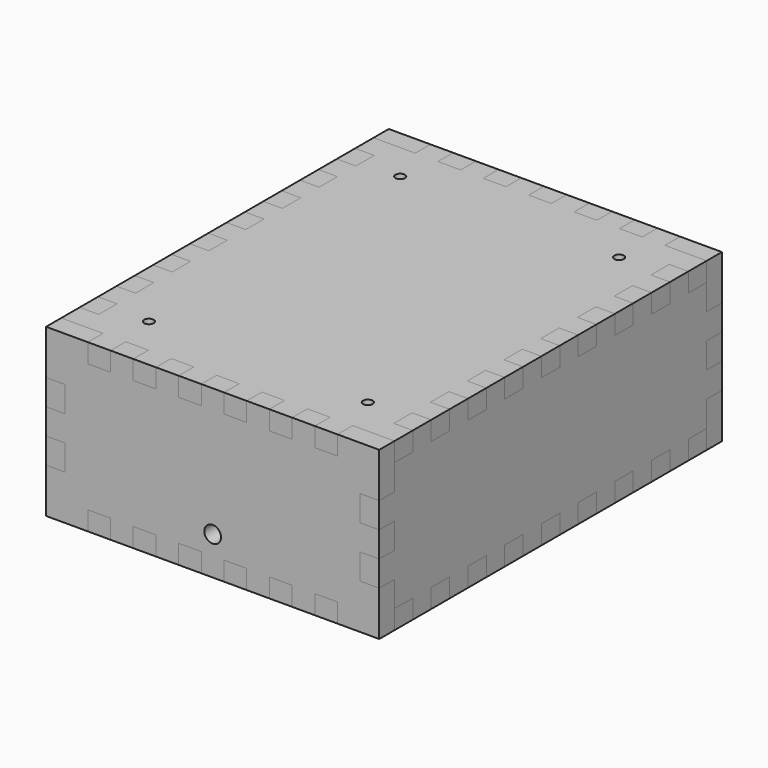
from build123d import *

# Parameters (mm, degrees)
BOTTOM_EXTRUDE_DEPTH = 4
SKETCH001_R          = 1
POCKET_DEPTH         = 4.001
SKETCH_W             = 50
SKETCH_H             = 70
PAD_DEPTH            = 1.6
SKETCH002_R          = 1
POCKET001_DEPTH      = 1.601
FRONT_EXTRUDE_DEPTH  = 4
SKETCH003_R          = 1.75
POCKET002_DEPTH      = 4.001
TOP_EXTRUDE_DEPTH    = 4
SKETCH004_R          = 1
POCKET003_DEPTH      = 4.001
RIGHT_EXTRUDE_DEPTH  = 4
BACK_EXTRUDE_DEPTH   = 4
LEFT_EXTRUDE_DEPTH   = 4


with BuildPart() as bottom:
    # Bottom_Part → Bottom_Extrude (new body)
    with BuildSketch(Plane(origin=(0, 0, -13.5), x_dir=(0, 1, 0), z_dir=(0, 0, 1))):
        Polygon((-41, 35), (-41, 31), (-41, 26.230769), (-45, 26.230769), (-45, 21.461538), (-41, 21.461538), (-41, 16.692308), (-45, 16.692308), (-45, 11.923077), (-41, 11.923077), (-41, 7.153846), (-45, 7.153846), (-45, 2.384615), (-41, 2.384615), (-41, -2.384615), (-45, -2.384615), (-45, -7.153846), (-41, -7.153846), (-41, -11.923077), (-45, -11.923077), (-45, -16.692308), (-41, -16.692308), (-41, -21.461538), (-45, -21.461538), (-45, -26.230769), (-41, -26.230769), (-41, -31), (-41, -35), (-36.176471, -35), (-36.176471, -31), (-31.352941, -31), (-31.352941, -35), (-26.529412, -35), (-26.529412, -31), (-21.705882, -31), (-21.705882, -35), (-16.882353, -35), (-16.882353, -31), (-12.058824, -31), (-12.058824, -35), (-7.235294, -35), (-7.235294, -31), (-2.411765, -31), (-2.411765, -35), (2.411765, -35), (2.411765, -31), (7.235294, -31), (7.235294, -35), (12.058824, -35), (12.058824, -31), (16.882353, -31), (16.882353, -35), (21.705882, -35), (21.705882, -31), (26.529412, -31), (26.529412, -35), (31.352941, -35), (31.352941, -31), (36.176471, -31), (36.176471, -35), (41, -35), (41, -31), (41, -26.230769), (45, -26.230769), (45, -21.461538), (41, -21.461538), (41, -16.692308), (45, -16.692308), (45, -11.923077), (41, -11.923077), (41, -7.153846), (45, -7.153846), (45, -2.384615), (41, -2.384615), (41, 2.384615), (45, 2.384615), (45, 7.153846), (41, 7.153846), (41, 11.923077), (45, 11.923077), (45, 16.692308), (41, 16.692308), (41, 21.461538), (45, 21.461538), (45, 26.230769), (41, 26.230769), (41, 31), (41, 35), (36.176471, 35), (36.176471, 31), (31.352941, 31), (31.352941, 35), (26.529412, 35), (26.529412, 31), (21.705882, 31), (21.705882, 35), (16.882353, 35), (16.882353, 31), (12.058824, 31), (12.058824, 35), (7.235294, 35), (7.235294, 31), (2.411765, 31), (2.411765, 35), (-2.411765, 35), (-2.411765, 31), (-7.235294, 31), (-7.235294, 35), (-12.058824, 35), (-12.058824, 31), (-16.882353, 31), (-16.882353, 35), (-21.705882, 35), (-21.705882, 31), (-26.529412, 31), (-26.529412, 35), (-31.352941, 35), (-31.352941, 31), (-36.176471, 31), (-36.176471, 35), align=None)
    extrude(amount=-BOTTOM_EXTRUDE_DEPTH)

    # Sketch001 → Pocket (cut, through all)
    with BuildSketch(Plane(origin=(0, 0, -17.5), x_dir=(1, 0, 0), z_dir=(0, 0, -1))):
        with Locations((-23, 33)):
            Circle(SKETCH001_R)
        with Locations((23, 33)):
            Circle(SKETCH001_R)
        with Locations((-23, -33)):
            Circle(SKETCH001_R)
        with Locations((23, -33)):
            Circle(SKETCH001_R)
    extrude(amount=-POCKET_DEPTH, mode=Mode.SUBTRACT)


with BuildPart() as pcb:
    # Sketch → Pad (new body)
    with BuildSketch(Plane.XY.offset(-9.5)):
        Rectangle(SKETCH_W, SKETCH_H)
    extrude(amount=PAD_DEPTH)

    # Sketch002 → Pocket001 (cut, through all)
    with BuildSketch(Plane.XY.offset(-7.9)):
        with Locations((-23, 33)):
            Circle(SKETCH002_R)
        with Locations((23, 33)):
            Circle(SKETCH002_R)
        with Locations((23, -33)):
            Circle(SKETCH002_R)
        with Locations((-23, -33)):
            Circle(SKETCH002_R)
    extrude(amount=-POCKET001_DEPTH, mode=Mode.SUBTRACT)


with BuildPart() as front:
    # Front_Part → Front_Extrude (new body)
    with BuildSketch(Plane(origin=(0, -41, 0), x_dir=(1, 0, 0), z_dir=(0, 1, 0))):
        Polygon((-35, -17.5), (-31, -17.5), (-26.230769, -17.5), (-26.230769, -13.5), (-21.461538, -13.5), (-21.461538, -17.5), (-16.692308, -17.5), (-16.692308, -13.5), (-11.923077, -13.5), (-11.923077, -17.5), (-7.153846, -17.5), (-7.153846, -13.5), (-2.384615, -13.5), (-2.384615, -17.5), (2.384615, -17.5), (2.384615, -13.5), (7.153846, -13.5), (7.153846, -17.5), (11.923077, -17.5), (11.923077, -13.5), (16.692308, -13.5), (16.692308, -17.5), (21.461538, -17.5), (21.461538, -13.5), (26.230769, -13.5), (26.230769, -17.5), (31, -17.5), (35, -17.5), (35, -13.5), (35, -8.1), (31, -8.1), (31, -2.7), (35, -2.7), (35, 2.7), (31, 2.7), (31, 8.1), (35, 8.1), (35, 13.5), (35, 17.5), (31, 17.5), (26.230769, 17.5), (26.230769, 13.5), (21.461538, 13.5), (21.461538, 17.5), (16.692308, 17.5), (16.692308, 13.5), (11.923077, 13.5), (11.923077, 17.5), (7.153846, 17.5), (7.153846, 13.5), (2.384615, 13.5), (2.384615, 17.5), (-2.384615, 17.5), (-2.384615, 13.5), (-7.153846, 13.5), (-7.153846, 17.5), (-11.923077, 17.5), (-11.923077, 13.5), (-16.692308, 13.5), (-16.692308, 17.5), (-21.461538, 17.5), (-21.461538, 13.5), (-26.230769, 13.5), (-26.230769, 17.5), (-31, 17.5), (-35, 17.5), (-35, 13.5), (-35, 8.1), (-31, 8.1), (-31, 2.7), (-35, 2.7), (-35, -2.7), (-31, -2.7), (-31, -8.1), (-35, -8.1), (-35, -13.5), align=None)
    extrude(amount=-FRONT_EXTRUDE_DEPTH)

    # Sketch003 → Pocket002 (cut, through all)
    with BuildSketch(Plane.XZ.offset(45)):
        with Locations((0, -9.5)):
            Circle(SKETCH003_R)
    extrude(amount=-POCKET002_DEPTH, mode=Mode.SUBTRACT)


with BuildPart() as top:
    # Top_Part → Top_Extrude (new body)
    with BuildSketch(Plane(origin=(0, 0, 13.5), x_dir=(0, -1, 0), z_dir=(0, 0, -1))):
        Polygon((-41, 35), (-41, 31), (-41, 26.230769), (-45, 26.230769), (-45, 21.461538), (-41, 21.461538), (-41, 16.692308), (-45, 16.692308), (-45, 11.923077), (-41, 11.923077), (-41, 7.153846), (-45, 7.153846), (-45, 2.384615), (-41, 2.384615), (-41, -2.384615), (-45, -2.384615), (-45, -7.153846), (-41, -7.153846), (-41, -11.923077), (-45, -11.923077), (-45, -16.692308), (-41, -16.692308), (-41, -21.461538), (-45, -21.461538), (-45, -26.230769), (-41, -26.230769), (-41, -31), (-41, -35), (-36.176471, -35), (-36.176471, -31), (-31.352941, -31), (-31.352941, -35), (-26.529412, -35), (-26.529412, -31), (-21.705882, -31), (-21.705882, -35), (-16.882353, -35), (-16.882353, -31), (-12.058824, -31), (-12.058824, -35), (-7.235294, -35), (-7.235294, -31), (-2.411765, -31), (-2.411765, -35), (2.411765, -35), (2.411765, -31), (7.235294, -31), (7.235294, -35), (12.058824, -35), (12.058824, -31), (16.882353, -31), (16.882353, -35), (21.705882, -35), (21.705882, -31), (26.529412, -31), (26.529412, -35), (31.352941, -35), (31.352941, -31), (36.176471, -31), (36.176471, -35), (41, -35), (41, -31), (41, -26.230769), (45, -26.230769), (45, -21.461538), (41, -21.461538), (41, -16.692308), (45, -16.692308), (45, -11.923077), (41, -11.923077), (41, -7.153846), (45, -7.153846), (45, -2.384615), (41, -2.384615), (41, 2.384615), (45, 2.384615), (45, 7.153846), (41, 7.153846), (41, 11.923077), (45, 11.923077), (45, 16.692308), (41, 16.692308), (41, 21.461538), (45, 21.461538), (45, 26.230769), (41, 26.230769), (41, 31), (41, 35), (36.176471, 35), (36.176471, 31), (31.352941, 31), (31.352941, 35), (26.529412, 35), (26.529412, 31), (21.705882, 31), (21.705882, 35), (16.882353, 35), (16.882353, 31), (12.058824, 31), (12.058824, 35), (7.235294, 35), (7.235294, 31), (2.411765, 31), (2.411765, 35), (-2.411765, 35), (-2.411765, 31), (-7.235294, 31), (-7.235294, 35), (-12.058824, 35), (-12.058824, 31), (-16.882353, 31), (-16.882353, 35), (-21.705882, 35), (-21.705882, 31), (-26.529412, 31), (-26.529412, 35), (-31.352941, 35), (-31.352941, 31), (-36.176471, 31), (-36.176471, 35), align=None)
    extrude(amount=-TOP_EXTRUDE_DEPTH)

    # Sketch004 → Pocket003 (cut, through all)
    with BuildSketch(Plane.XY.offset(17.5)):
        with Locations((-23, 33)):
            Circle(SKETCH004_R)
        with Locations((23, 33)):
            Circle(SKETCH004_R)
        with Locations((-23, -33)):
            Circle(SKETCH004_R)
        with Locations((23, -33)):
            Circle(SKETCH004_R)
    extrude(amount=-POCKET003_DEPTH, mode=Mode.SUBTRACT)


with BuildPart() as right_extrude:
    # Right_Part → Right_Extrude (new body)
    with BuildSketch(Plane(origin=(31, 0, 0), x_dir=(0, 1, 0), z_dir=(-1, 0, 0))):
        Polygon((-41, -13.5), (-36.176471, -13.5), (-36.176471, -17.5), (-31.352941, -17.5), (-31.352941, -13.5), (-26.529412, -13.5), (-26.529412, -17.5), (-21.705882, -17.5), (-21.705882, -13.5), (-16.882353, -13.5), (-16.882353, -17.5), (-12.058824, -17.5), (-12.058824, -13.5), (-7.235294, -13.5), (-7.235294, -17.5), (-2.411765, -17.5), (-2.411765, -13.5), (2.411765, -13.5), (2.411765, -17.5), (7.235294, -17.5), (7.235294, -13.5), (12.058824, -13.5), (12.058824, -17.5), (16.882353, -17.5), (16.882353, -13.5), (21.705882, -13.5), (21.705882, -17.5), (26.529412, -17.5), (26.529412, -13.5), (31.352941, -13.5), (31.352941, -17.5), (36.176471, -17.5), (36.176471, -13.5), (41, -13.5), (41, -8.1), (45, -8.1), (45, -2.7), (41, -2.7), (41, 2.7), (45, 2.7), (45, 8.1), (41, 8.1), (41, 13.5), (36.176471, 13.5), (36.176471, 17.5), (31.352941, 17.5), (31.352941, 13.5), (26.529412, 13.5), (26.529412, 17.5), (21.705882, 17.5), (21.705882, 13.5), (16.882353, 13.5), (16.882353, 17.5), (12.058824, 17.5), (12.058824, 13.5), (7.235294, 13.5), (7.235294, 17.5), (2.411765, 17.5), (2.411765, 13.5), (-2.411765, 13.5), (-2.411765, 17.5), (-7.235294, 17.5), (-7.235294, 13.5), (-12.058824, 13.5), (-12.058824, 17.5), (-16.882353, 17.5), (-16.882353, 13.5), (-21.705882, 13.5), (-21.705882, 17.5), (-26.529412, 17.5), (-26.529412, 13.5), (-31.352941, 13.5), (-31.352941, 17.5), (-36.176471, 17.5), (-36.176471, 13.5), (-41, 13.5), (-41, 8.1), (-45, 8.1), (-45, 2.7), (-41, 2.7), (-41, -2.7), (-45, -2.7), (-45, -8.1), (-41, -8.1), align=None)
    extrude(amount=-RIGHT_EXTRUDE_DEPTH)


with BuildPart() as back_extrude:
    # Back_Part → Back_Extrude (new body)
    with BuildSketch(Plane(origin=(0, 41, 0), x_dir=(-1, 0, 0), z_dir=(0, -1, 0))):
        Polygon((-35, -17.5), (-31, -17.5), (-26.230769, -17.5), (-26.230769, -13.5), (-21.461538, -13.5), (-21.461538, -17.5), (-16.692308, -17.5), (-16.692308, -13.5), (-11.923077, -13.5), (-11.923077, -17.5), (-7.153846, -17.5), (-7.153846, -13.5), (-2.384615, -13.5), (-2.384615, -17.5), (2.384615, -17.5), (2.384615, -13.5), (7.153846, -13.5), (7.153846, -17.5), (11.923077, -17.5), (11.923077, -13.5), (16.692308, -13.5), (16.692308, -17.5), (21.461538, -17.5), (21.461538, -13.5), (26.230769, -13.5), (26.230769, -17.5), (31, -17.5), (35, -17.5), (35, -13.5), (35, -8.1), (31, -8.1), (31, -2.7), (35, -2.7), (35, 2.7), (31, 2.7), (31, 8.1), (35, 8.1), (35, 13.5), (35, 17.5), (31, 17.5), (26.230769, 17.5), (26.230769, 13.5), (21.461538, 13.5), (21.461538, 17.5), (16.692308, 17.5), (16.692308, 13.5), (11.923077, 13.5), (11.923077, 17.5), (7.153846, 17.5), (7.153846, 13.5), (2.384615, 13.5), (2.384615, 17.5), (-2.384615, 17.5), (-2.384615, 13.5), (-7.153846, 13.5), (-7.153846, 17.5), (-11.923077, 17.5), (-11.923077, 13.5), (-16.692308, 13.5), (-16.692308, 17.5), (-21.461538, 17.5), (-21.461538, 13.5), (-26.230769, 13.5), (-26.230769, 17.5), (-31, 17.5), (-35, 17.5), (-35, 13.5), (-35, 8.1), (-31, 8.1), (-31, 2.7), (-35, 2.7), (-35, -2.7), (-31, -2.7), (-31, -8.1), (-35, -8.1), (-35, -13.5), align=None)
    extrude(amount=-BACK_EXTRUDE_DEPTH)


with BuildPart() as left_extrude:
    # Left_Part → Left_Extrude (new body)
    with BuildSketch(Plane(origin=(-31, 0, 0), x_dir=(0, 1, 0), z_dir=(-1, 0, 0))):
        Polygon((-41, -13.5), (-36.176471, -13.5), (-36.176471, -17.5), (-31.352941, -17.5), (-31.352941, -13.5), (-26.529412, -13.5), (-26.529412, -17.5), (-21.705882, -17.5), (-21.705882, -13.5), (-16.882353, -13.5), (-16.882353, -17.5), (-12.058824, -17.5), (-12.058824, -13.5), (-7.235294, -13.5), (-7.235294, -17.5), (-2.411765, -17.5), (-2.411765, -13.5), (2.411765, -13.5), (2.411765, -17.5), (7.235294, -17.5), (7.235294, -13.5), (12.058824, -13.5), (12.058824, -17.5), (16.882353, -17.5), (16.882353, -13.5), (21.705882, -13.5), (21.705882, -17.5), (26.529412, -17.5), (26.529412, -13.5), (31.352941, -13.5), (31.352941, -17.5), (36.176471, -17.5), (36.176471, -13.5), (41, -13.5), (41, -8.1), (45, -8.1), (45, -2.7), (41, -2.7), (41, 2.7), (45, 2.7), (45, 8.1), (41, 8.1), (41, 13.5), (36.176471, 13.5), (36.176471, 17.5), (31.352941, 17.5), (31.352941, 13.5), (26.529412, 13.5), (26.529412, 17.5), (21.705882, 17.5), (21.705882, 13.5), (16.882353, 13.5), (16.882353, 17.5), (12.058824, 17.5), (12.058824, 13.5), (7.235294, 13.5), (7.235294, 17.5), (2.411765, 17.5), (2.411765, 13.5), (-2.411765, 13.5), (-2.411765, 17.5), (-7.235294, 17.5), (-7.235294, 13.5), (-12.058824, 13.5), (-12.058824, 17.5), (-16.882353, 17.5), (-16.882353, 13.5), (-21.705882, 13.5), (-21.705882, 17.5), (-26.529412, 17.5), (-26.529412, 13.5), (-31.352941, 13.5), (-31.352941, 17.5), (-36.176471, 17.5), (-36.176471, 13.5), (-41, 13.5), (-41, 8.1), (-45, 8.1), (-45, 2.7), (-41, 2.7), (-41, -2.7), (-45, -2.7), (-45, -8.1), (-41, -8.1), align=None)
    extrude(amount=LEFT_EXTRUDE_DEPTH)


solid = Compound([bottom.part, pcb.part, front.part, top.part, right_extrude.part, back_extrude.part, left_extrude.part])
